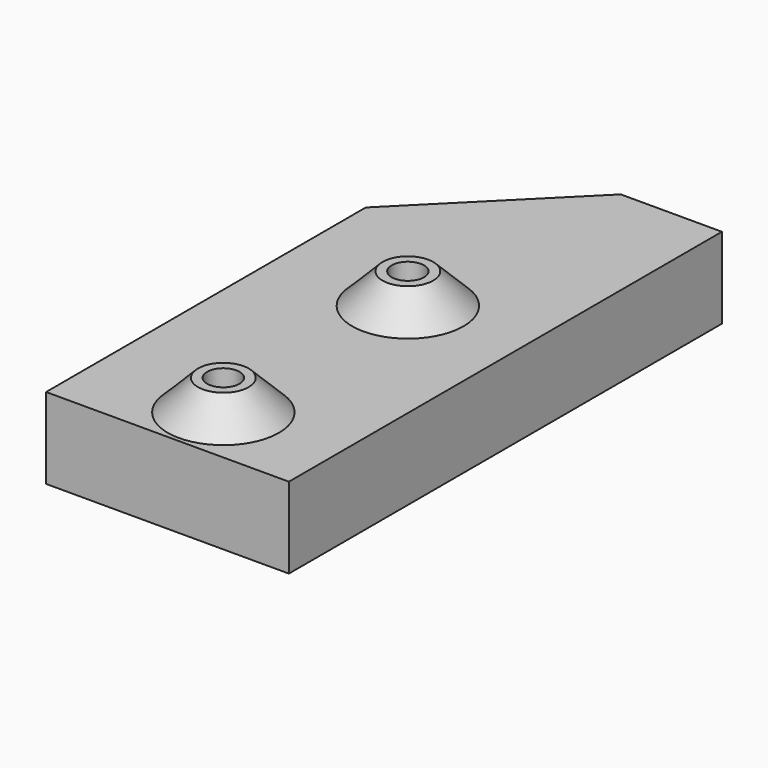
from build123d import *

# Parameters (mm, degrees)
CYLINDER080_R     = 0.8
CYLINDER080_DEPTH = 14.5
CYLINDER079_R     = 0.8
CYLINDER079_DEPTH = 14.5
BOX043_W          = 12
BOX043_H          = 26.75
BOX043_DEPTH      = 4
CHAMFER_SIZE      = 7


with BuildPart() as cylinder132:
    # Cylinder080 → Cylinder080 (new body)
    with BuildSketch(Plane(origin=(-43.6, -13.8, -15), x_dir=(1, 0, 0), z_dir=(0, 0, 1))):
        Circle(CYLINDER080_R)
    extrude(amount=CYLINDER080_DEPTH)


with BuildPart() as fusion113:
    # Cylinder079 → Cylinder079 (new body)
    with BuildSketch(Plane(origin=(-43.6, -2.4, -15), x_dir=(1, 0, 0), z_dir=(0, 0, 1))):
        Circle(CYLINDER079_R)
    extrude(amount=CYLINDER079_DEPTH)

    # Fusion113: union Cylinder132
    add(cylinder132.part)


with BuildPart() as cone001:
    # Cone001 → Cone001 (revolve)
    with BuildSketch(Plane(origin=(-43.6, -13.8, -10), x_dir=(1, 0, 0), z_dir=(0, -1, 0))):
        Polygon((0, 0), (2.75, 0), (1.25, 1.5), (0, 1.5), align=None)
    revolve(axis=Axis((-43.6, -13.8, -10), (0, 0, 1)))


with BuildPart() as fusion111:
    # Cone → Cone (revolve)
    with BuildSketch(Plane(origin=(-43.6, -2.4, -10), x_dir=(1, 0, 0), z_dir=(0, -1, 0))):
        Polygon((0, 0), (2.75, 0), (1.25, 1.5), (0, 1.5), align=None)
    revolve(axis=Axis((-43.6, -2.4, -10), (0, 0, 1)))

    # Fusion111: union Cone001
    add(cone001.part)


with BuildPart() as cut045027:
    # Box043 → Box043 (new body)
    with BuildSketch(Plane(origin=(-50, -16.75, -14), x_dir=(1, 0, 0), z_dir=(0, 0, 1))):
        with Locations((6, 13.375)):
            Rectangle(BOX043_W, BOX043_H)
    extrude(amount=BOX043_DEPTH)

    # Chamfer
    chamfer_edges = [cut045027.edges().sort_by_distance(p)[0] for p in [
        (-50, 10, -12),
    ]]
    chamfer(chamfer_edges, length=CHAMFER_SIZE)

    # Fusion112: union Fusion111
    add(fusion111.part)

    # Cut045027: cut Fusion113
    add(fusion113.part, mode=Mode.SUBTRACT)


solid = cut045027.part
